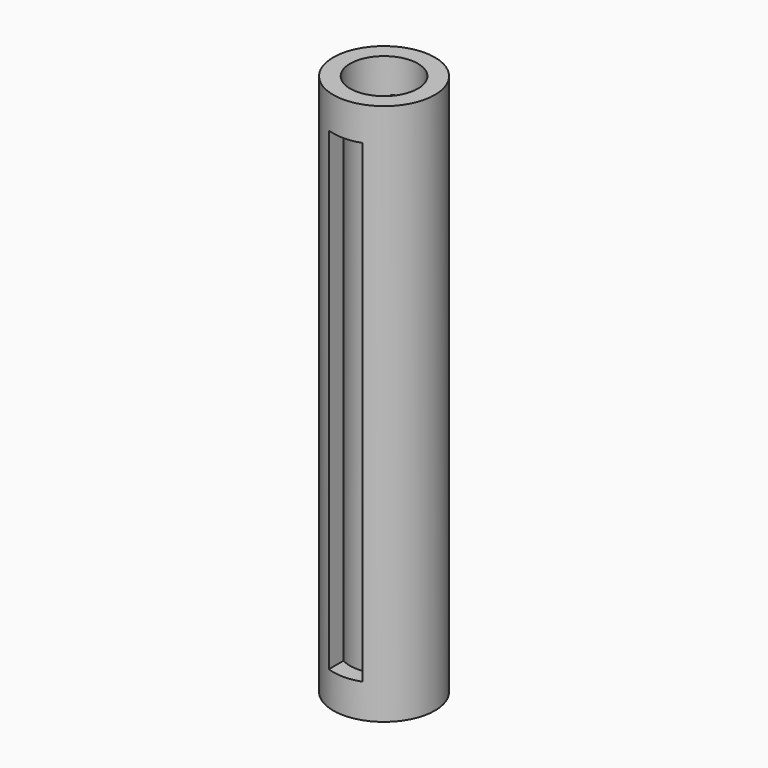
from build123d import *

# Parameters (mm, degrees)
F0_R          = 4.7625
F0_R_2        = 3.175
F1_DEPTH      = 50.8
F2_W          = 3.175
F2_H          = 44.45
F3_DEPTH      = 25.4
F3_DEPTH_BACK = 25.4


with BuildPart() as f1:
    # F0 (on Top) → F1 (new body)
    with BuildSketch(Plane.XY):
        Circle(F0_R)
        Circle(F0_R_2, mode=Mode.SUBTRACT)
    extrude(amount=F1_DEPTH)

    # F2 (on Front) → F3 (cut, two sides)
    with BuildSketch(Plane.XZ) as f3_sk:
        with Locations((0, 25.4)):
            Rectangle(F2_W, F2_H)
    extrude(amount=-F3_DEPTH, mode=Mode.SUBTRACT)
    extrude(f3_sk.sketch, amount=F3_DEPTH_BACK, mode=Mode.SUBTRACT)


solid = f1.part
